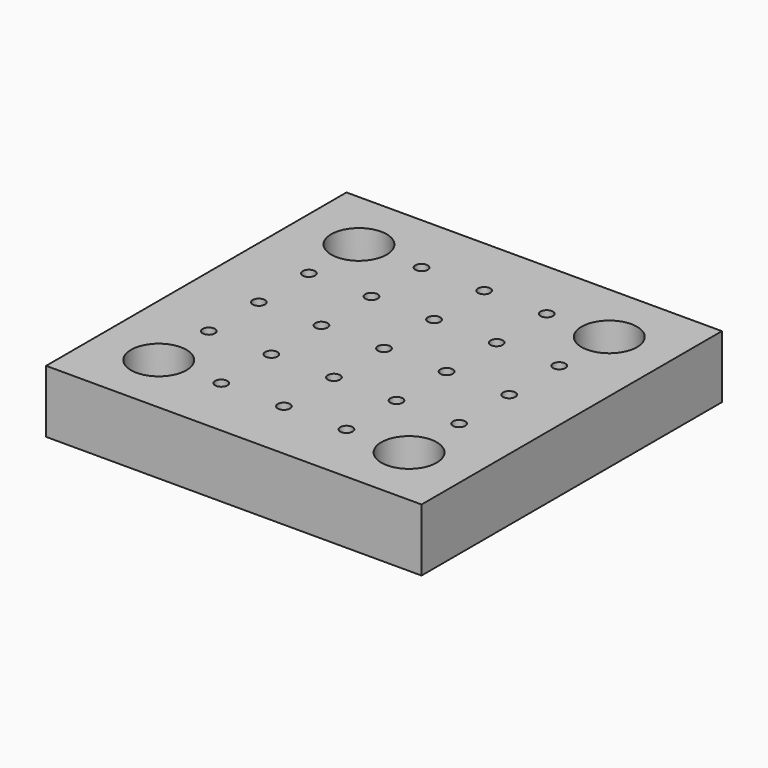
from build123d import *

# Parameters (mm, degrees)
F0_W           = 76.2
F0_H           = 76.2
F1_DEPTH       = 12.7
F2_D           = 2.5
F3_D           = 6.6
F3_CBORE_D     = 11.25
F3_CBORE_DEPTH = 6


with BuildPart() as f1:
    # F0 (on Top) → F1 (new body)
    with BuildSketch(Plane.XY):
        Rectangle(F0_W, F0_H)
    extrude(amount=-F1_DEPTH)

    # F2 (through all)
    with Locations(Plane.XY):
        with Locations((-25.4, 12.7), (-12.7, 25.4), (-12.7, 12.7), (0, 12.7), (12.7, 25.4), (0, 25.4), (12.7, 12.7), (25.4, 12.7), (25.4, 0), (12.7, 0), (0, 0), (-12.7, 0), (-25.4, 0), (-25.4, -12.7), (-12.7, -12.7), (0, -12.7), (12.7, -12.7), (25.4, -12.7), (12.7, -25.4), (0, -25.4), (-12.7, -25.4)):
            Hole(F2_D / 2)

    # F3 (through all)
    with Locations(Plane.XY):
        with Locations((-25.4, 25.4), (25.4, 25.4), (25.4, -25.4), (-25.4, -25.4)):
            CounterBoreHole(F3_D / 2, F3_CBORE_D / 2, F3_CBORE_DEPTH)


solid = f1.part
